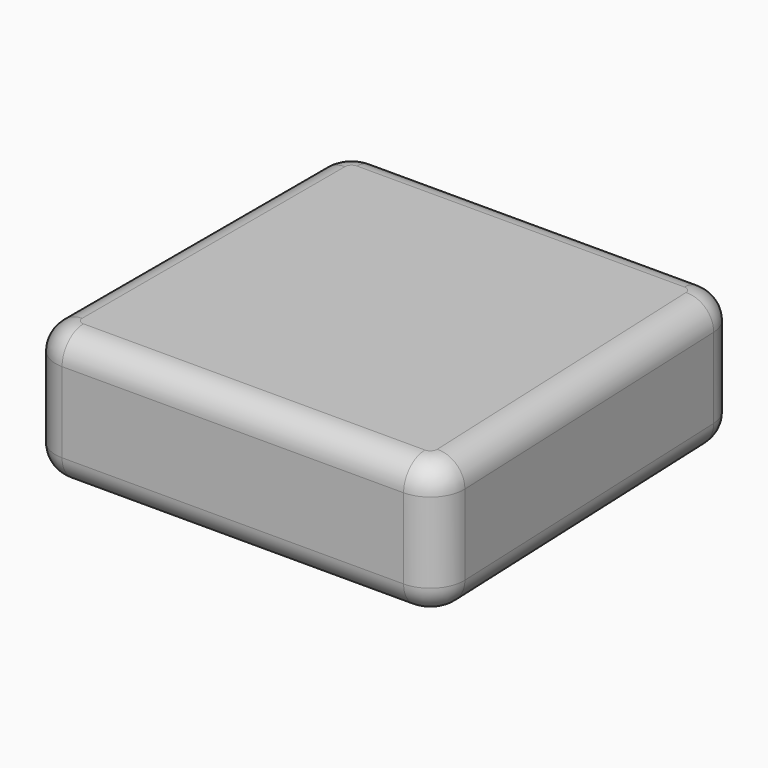
from build123d import *

# Parameters (mm, degrees)
F1_DEPTH = 25.4
F2_R     = 5.08
F3_R     = 5.08


with BuildPart() as f1:
    # F0 (on Top) → F1 (new body)
    with BuildSketch(Plane.XY):
        with BuildLine():
            ThreePointArc((74.904919, -6.080303), (72.95439, -1.765511), (68.560649, 0))
            Line((68.560649, 0), (6.35, 0))
            ThreePointArc((6.35, 0), (1.859872, -1.859872), (0, -6.35))
            Line((0, -6.35), (0, -68.728852))
            ThreePointArc((0, -68.728852), (1.859872, -73.218981), (6.35, -75.078852))
            Line((6.35, -75.078852), (71.212395, -75.078852))
            ThreePointArc((71.212395, -75.078852), (75.796884, -73.122594), (77.556665, -68.459155))
            Line((77.556665, -68.459155), (74.904919, -6.080303))
        make_face()
    extrude(amount=F1_DEPTH)

    # F2
    f2_edges = [f1.edges().sort_by_distance(p)[0] for p in [
        (38.781197, -75.078852, 25.4),
    ]]
    fillet(f2_edges, radius=F2_R)

    # F3
    f3_edges = [f1.edges().sort_by_distance(p)[0] for p in [
        (38.781197, -75.078852, 0),
        (76.230792, -37.269729, 0),
    ]]
    fillet(f3_edges, radius=F3_R)


solid = f1.part
